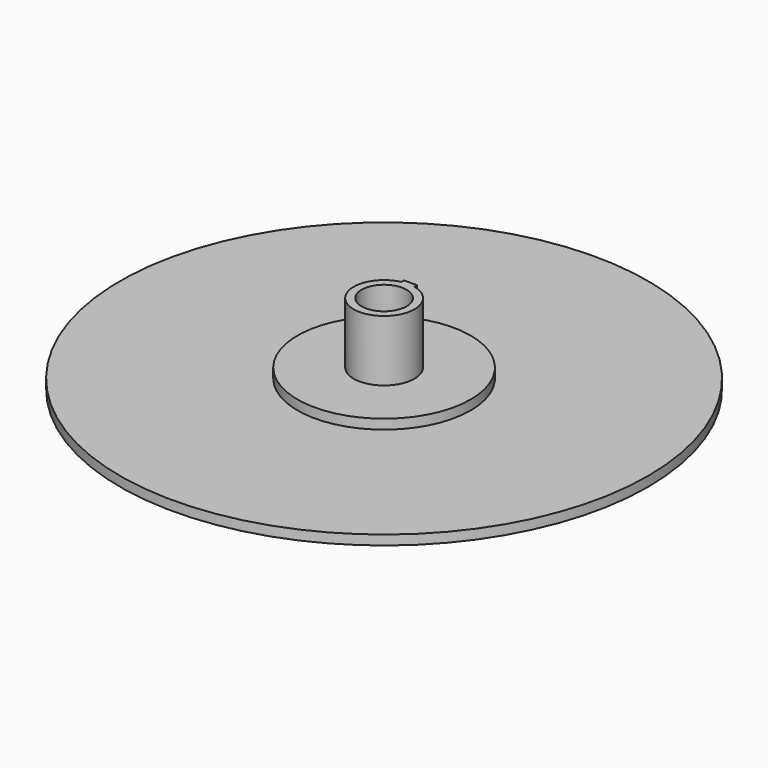
from build123d import *

# Parameters (mm, degrees)
F0_R      = 82
F1_DEPTH  = 3
F2_R      = 26.9
F3_DEPTH  = 3
F4_R      = 9.45
F5_DEPTH  = 19
F6_W      = 4
F6_H      = 11.45
F7_DEPTH  = 19
F9_DEPTH  = 20
F9_FACE_W = 4
F9_FACE_H = 19
F10_DEPTH = 1.2
F11_R     = 7
F12_DEPTH = 25


with BuildPart() as f1:
    # F0 (on Top) → F1 (new body)
    with BuildSketch(Plane.XY):
        Circle(F0_R)
    extrude(amount=-F1_DEPTH)

    # F2 (on face) → F3 (join)
    with BuildSketch(Plane.XY):
        Circle(F2_R)
    extrude(amount=F3_DEPTH)

    # F4 (on face) → F5 (join)
    with BuildSketch(Plane.XY.offset(3)):
        Circle(F4_R)
    extrude(amount=F5_DEPTH)

    # F6 (on face) → F7 (join)
    with BuildSketch(Plane.XY.offset(22)):
        Rectangle(F6_W, F6_H)
    extrude(amount=-F7_DEPTH)


with BuildPart() as f1_1:
    # F8: moved
    add(f1.part.moved(Location((0, -5.725, 0))))

    # F6 (on face) → F9 (join)
    with BuildSketch(Plane.XY.offset(22)):
        Rectangle(F6_W, F6_H)
    extrude(amount=-F9_DEPTH)

    # F9_face (on face) → F10 (cut)
    with BuildSketch(Plane(origin=(0, 5.725, 12.5), x_dir=(-1, 0, 0), z_dir=(0, 1, 0))):
        Rectangle(F9_FACE_W, F9_FACE_H)
    extrude(amount=-F10_DEPTH, mode=Mode.SUBTRACT)

    # F11 (on face) → F12 (cut)
    with BuildSketch(Plane.XY.offset(22)):
        with Locations((0, -5.725)):
            Circle(F11_R)
    extrude(amount=-F12_DEPTH, mode=Mode.SUBTRACT)


solid = f1_1.part
